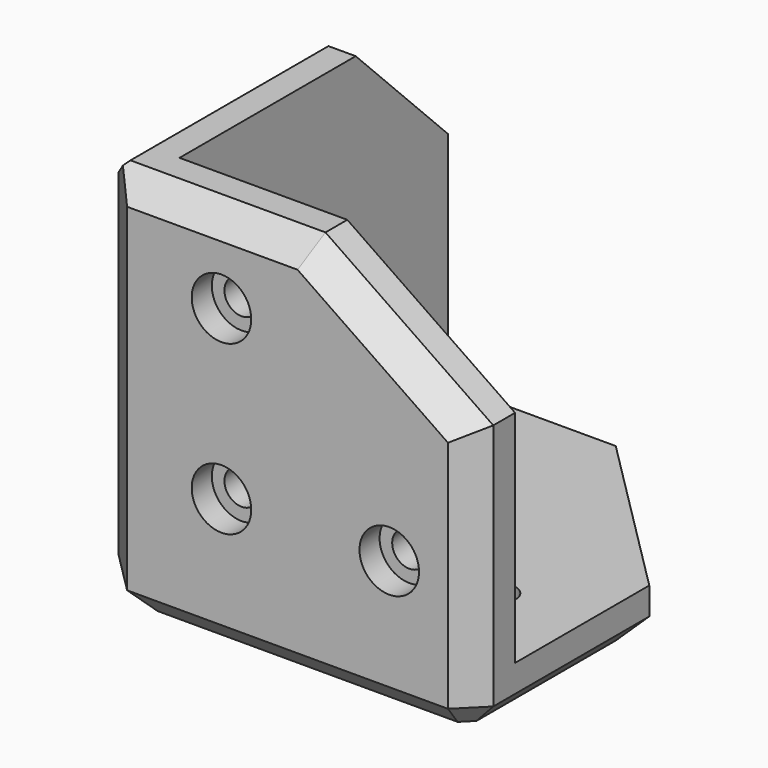
from build123d import *

# Parameters (mm, degrees)
F1_DEPTH  = 6.25
F3_DEPTH  = 6.25
F5_DEPTH  = 6.25
F6_R      = 2.05
F6_R_2    = 3.05
F7_DEPTH  = 25
F8_R      = 2.05
F9_DEPTH  = 25
F10_R     = 2.05
F11_DEPTH = 25
F13_R     = 3.55
F14_DEPTH = 3
F15_R     = 3.55
F16_DEPTH = 3
F17_R     = 3.55
F17_R_2   = 4.55
F18_DEPTH = 3
F19_SIZE  = 5
F20_SIZE  = 3
F21_SIZE  = 3


with BuildPart() as f1:
    # F0 (on Top) → F1 (new body)
    with BuildSketch(Plane.XY):
        Polygon((4.1484118214, 32.5575917727), (-22.1015881786, 32.5575917727), (-22.1015881786, -13.6924082273), (24.1484118214, -13.6924082273), (24.1484118214, 12.5575917727), align=None)
    extrude(amount=F1_DEPTH)

    # F6 (on face) → F7 (cut)
    with BuildSketch(Plane.XY.offset(6.25)):
        with Locations((-5.8515881786, 22.5575917727)):
            Circle(F6_R)
        with Locations((-5.8515881786, 2.5575917727)):
            Circle(F6_R_2)
        with Locations((14.1484118214, 2.5575917727)):
            Circle(F6_R)
    extrude(amount=-F7_DEPTH, mode=Mode.SUBTRACT)


with BuildPart() as f3:
    # F2 (on face) → F3 (new body)
    with BuildSketch(Plane.XZ.offset(13.6924082273)):
        Polygon((-22.1015881786, 46.25), (-22.1015881786, 6.25), (24.1484118214, 6.25), (24.1484118214, 32.5), (4.1484118214, 46.25), align=None)
    extrude(amount=-F3_DEPTH)

    # F8 (on face) → F9 (cut)
    with BuildSketch(Plane(origin=(0, -7.4424082273, 0), x_dir=(-1, 0, 0), z_dir=(0, 1, 0))):
        with Locations((5.8515881786, 16.25)):
            Circle(F8_R)
        with Locations((-14.1484118214, 16.25)):
            Circle(F8_R)
        with Locations((5.8515881786, 36.25)):
            Circle(F8_R)
    extrude(amount=-F9_DEPTH, mode=Mode.SUBTRACT)


with BuildPart() as f5:
    # F4 (on face) → F5 (new body)
    with BuildSketch(Plane(origin=(-22.1015881786, 0, 0), x_dir=(0, -1, 0), z_dir=(-1, 0, 0))):
        Polygon((-32.5575917727, 6.25), (7.4424082273, 6.25), (7.4424082273, 46.25), (-18.8075917727, 46.25), (-32.5575917727, 32.5), align=None)
    extrude(amount=-F5_DEPTH)

    # F10 (on face) → F11 (cut)
    with BuildSketch(Plane.YZ.offset(-15.8515881786)):
        with Locations((22.5575917727, 16.25)):
            Circle(F10_R)
        with Locations((2.5575917727, 16.25)):
            Circle(F10_R)
        with Locations((2.5575917727, 36.25)):
            Circle(F10_R)
    extrude(amount=-F11_DEPTH, mode=Mode.SUBTRACT)


with BuildPart() as f1_1:
    add(f1.part)

    # F12: union F3, F5
    add(f3.part)
    add(f5.part)

    # F13 (on face) → F14 (cut)
    with BuildSketch(Plane.XZ.offset(13.6924082273)):
        with Locations((-5.8515881786, 36.25)):
            Circle(F13_R)
        with Locations((14.1484118214, 16.25)):
            Circle(F13_R)
        with Locations((-5.8515881786, 16.25)):
            Circle(F13_R)
    extrude(amount=-F14_DEPTH, mode=Mode.SUBTRACT)

    # F15 (on face) → F16 (cut)
    with BuildSketch(Plane(origin=(-22.1015881786, 0, 0), x_dir=(0, -1, 0), z_dir=(-1, 0, 0))):
        with Locations((-2.5575917727, 36.25)):
            Circle(F15_R)
        with Locations((-2.5575917727, 16.25)):
            Circle(F15_R)
        with Locations((-22.5575917727, 16.25)):
            Circle(F15_R)
    extrude(amount=-F16_DEPTH, mode=Mode.SUBTRACT)

    # F17 (on face) → F18 (cut)
    with BuildSketch(Plane(origin=(0, 0, 0), x_dir=(1, 0, 0), z_dir=(0, 0, -1))):
        with Locations((-5.8515881786, -22.5575917727)):
            Circle(F17_R)
        with Locations((-5.8515881786, -2.5575917727)):
            Circle(F17_R_2)
        with Locations((14.1484118214, -2.5575917727)):
            Circle(F17_R)
    extrude(amount=-F18_DEPTH, mode=Mode.SUBTRACT)

    # F19
    f19_edges = [f1_1.edges().sort_by_distance(p)[0] for p in [
        (-22.101588, -13.692408, 23.125),
    ]]
    chamfer(f19_edges, length=F19_SIZE)

    # F20 (call 1 of 2: OpenCascade refuses the feature's edges together)
    f20_edges = [f1_1.edges().sort_by_distance(p)[0] for p in [
        (-6.476588, -13.692408, 46.25),
        (14.148412, -13.692408, 39.375),
        (24.148412, -13.692408, 16.25),
    ]]
    chamfer(f20_edges, length=F20_SIZE)

    # F20#2 (call 2 of 2)
    f20_2_edges = [f1_1.edges().sort_by_distance(p)[0] for p in [
        (-22.101588, 5.057592, 46.25),
        (-22.101588, 25.682592, 39.375),
        (-22.101588, 32.557592, 16.25),
    ]]
    chamfer(f20_2_edges, length=F20_SIZE)

    # F21
    f21_edges = [f1_1.edges().sort_by_distance(p)[0] for p in [
        (22.648412, -12.192408, 0),
        (24.148412, 0.932592, 0),
        (14.148412, 22.557592, 0),
        (-7.476588, 32.557592, 0),
        (-20.601588, 31.057592, 0),
        (-22.101588, 10.432592, 0),
        (-19.601588, -11.192408, 0),
        (2.023412, -13.692408, 0),
    ]]
    chamfer(f21_edges, length=F21_SIZE)


solid = f1_1.part
